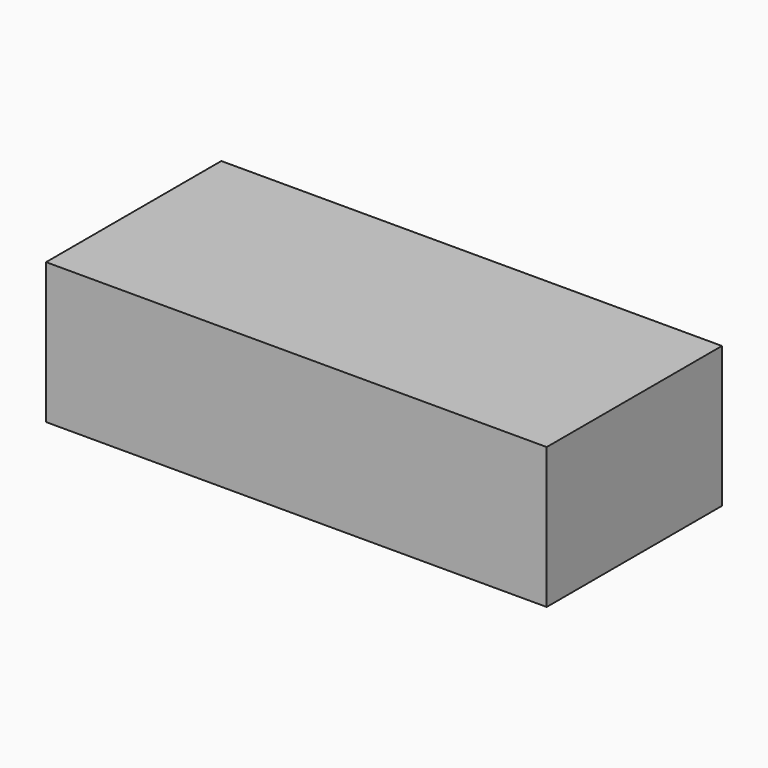
from build123d import *

# Parameters (mm, degrees)
SKETCH_W  = 320
SKETCH_H  = 140
PAD_DEPTH = 45


with BuildPart() as part:
    # Sketch → Pad (new body, symmetric)
    with BuildSketch(Plane.XY):
        Rectangle(SKETCH_W, SKETCH_H)
    extrude(amount=PAD_DEPTH, both=True)


solid = part.part
